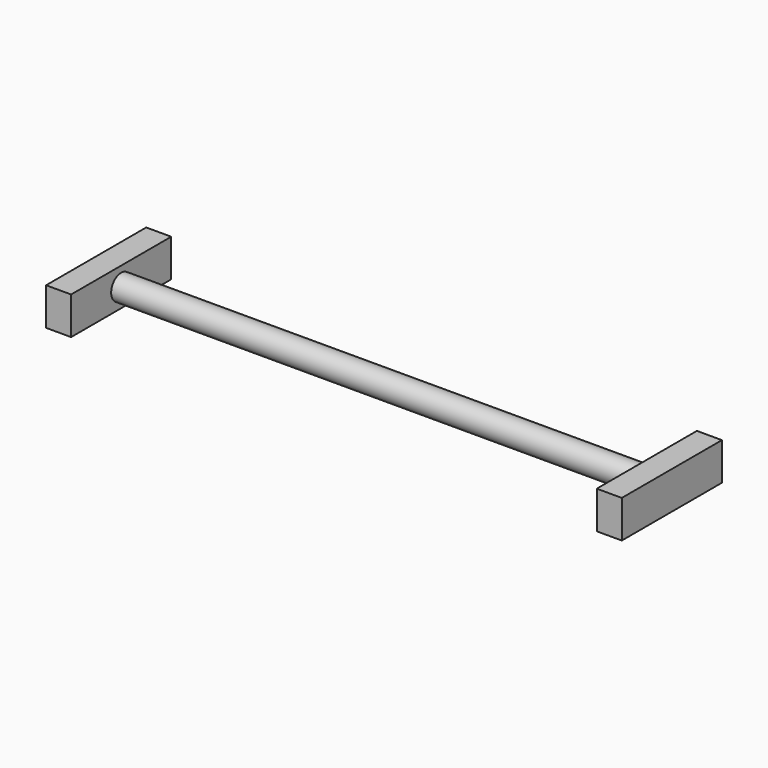
from build123d import *

# Parameters (mm, degrees)
F1_DEPTH = 38.1
F2_R     = 12.7
F3_DEPTH = 533.4
F4_W     = 127
F4_H     = 38.1
F5_DEPTH = 25.4


with BuildPart() as f1:
    # F0 (on Top) → F1 (new body)
    with BuildSketch(Plane.XY):
        Polygon((-46.300181, 91.77144), (-71.700181, 91.77144), (-71.700181, -35.22856), (-46.300181, -35.22856), (-46.300181, 15.57144), (-46.300181, 40.97144), align=None)
    extrude(amount=F1_DEPTH)

    # F2 (on face) → F3 (join)
    with BuildSketch(Plane.YZ.offset(-46.300181)):
        with Locations((28.27144, 19.05)):
            Circle(F2_R)
    extrude(amount=F3_DEPTH)

    # F4 (on face) → F5 (join)
    with BuildSketch(Plane.YZ.offset(487.099819)):
        with Locations((28.27144, 19.05)):
            Rectangle(F4_W, F4_H)
    extrude(amount=F5_DEPTH)


solid = f1.part
